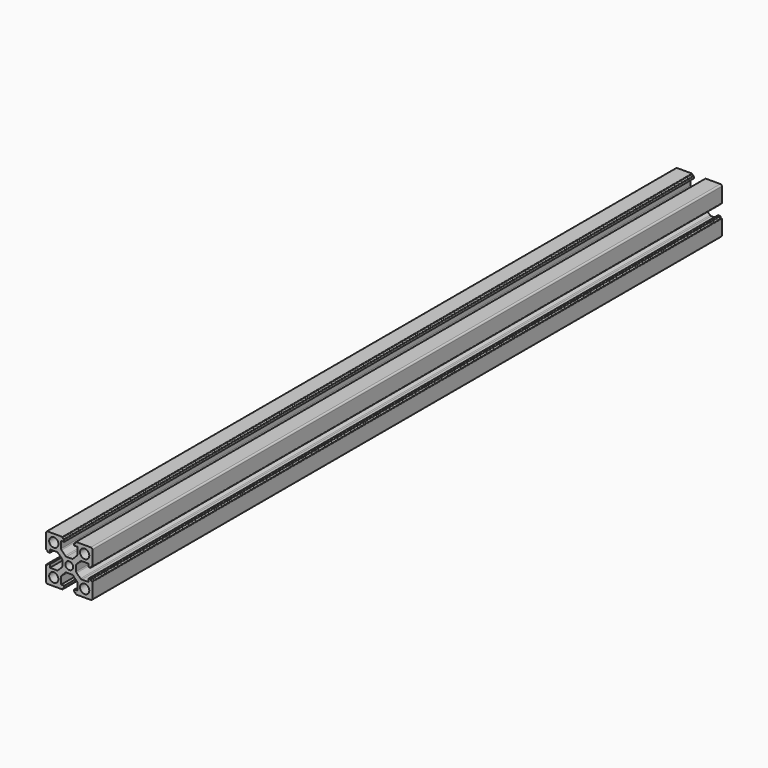
from build123d import *

# Parameters (mm, degrees)
F0_R     = 3
F0_R_2   = 2.5
F1_DEPTH = 510


with BuildPart() as f1:
    # F0 (on Front) → F1 (new body)
    with BuildSketch(Plane.XZ):
        with BuildLine():
            Line((-4.5, 15), (-14, 15))
            ThreePointArc((-14, 15), (-14.707107, 14.707107), (-15, 14))
            Line((-15, 14), (-15, 4.5))
            ThreePointArc((-15, 4.5), (-14.912132, 4.287868), (-14.7, 4.2))
            Line((-14.7, 4.2), (-14.5, 4.2))
            ThreePointArc((-14.5, 4.2), (-14.146447, 4.053553), (-14, 3.7))
            Line((-14, 3.7), (-14, 3.55))
            ThreePointArc((-14, 3.55), (-13.912132, 3.337868), (-13.7, 3.25))
            Line((-13.7, 3.25), (-12.5, 3.25))
            Line((-12.5, 3.25), (-12.5, 5.25))
            Line((-12.5, 5.25), (-8.004644, 5.25))
            ThreePointArc((-8.004644, 5.25), (-7.629545, 5.176985), (-7.309222, 4.968602))
            Line((-7.309222, 4.968602), (-4.804579, 2.544753))
            ThreePointArc((-4.804579, 2.544753), (-4.579288, 2.216394), (-4.5, 1.826151))
            Line((-4.5, 1.826151), (-4.5, -1.826151))
            ThreePointArc((-4.5, -1.826151), (-4.579288, -2.216394), (-4.804579, -2.544753))
            Line((-4.804579, -2.544753), (-7.309222, -4.968602))
            ThreePointArc((-7.309222, -4.968602), (-7.629545, -5.176985), (-8.004644, -5.25))
            Line((-8.004644, -5.25), (-12.5, -5.25))
            Line((-12.5, -5.25), (-12.5, -3.25))
            Line((-12.5, -3.25), (-13.7, -3.25))
            ThreePointArc((-13.7, -3.25), (-13.912132, -3.337868), (-14, -3.55))
            Line((-14, -3.55), (-14, -3.7))
            ThreePointArc((-14, -3.7), (-14.146447, -4.053553), (-14.5, -4.2))
            Line((-14.5, -4.2), (-14.7, -4.2))
            ThreePointArc((-14.7, -4.2), (-14.912132, -4.287868), (-15, -4.5))
            Line((-15, -4.5), (-15, -14))
            ThreePointArc((-15, -14), (-14.707107, -14.707107), (-14, -15))
            Line((-14, -15), (-4.5, -15))
            ThreePointArc((-4.5, -15), (-4.287868, -14.912132), (-4.2, -14.7))
            Line((-4.2, -14.7), (-4.2, -14.5))
            ThreePointArc((-4.2, -14.5), (-4.053553, -14.146447), (-3.7, -14))
            Line((-3.7, -14), (-3.55, -14))
            ThreePointArc((-3.55, -14), (-3.337868, -13.912132), (-3.25, -13.7))
            Line((-3.25, -13.7), (-3.25, -12.5))
            Line((-3.25, -12.5), (-5.25, -12.5))
            Line((-5.25, -12.5), (-5.25, -8.004644))
            ThreePointArc((-5.25, -8.004644), (-5.176985, -7.629545), (-4.968602, -7.309222))
            Line((-4.968602, -7.309222), (-2.544753, -4.804579))
            ThreePointArc((-2.544753, -4.804579), (-2.216394, -4.579288), (-1.826151, -4.5))
            Line((-1.826151, -4.5), (1.826151, -4.5))
            ThreePointArc((1.826151, -4.5), (2.216394, -4.579288), (2.544753, -4.804579))
            Line((2.544753, -4.804579), (4.968602, -7.309222))
            ThreePointArc((4.968602, -7.309222), (5.176985, -7.629545), (5.25, -8.004644))
            Line((5.25, -8.004644), (5.25, -12.5))
            Line((5.25, -12.5), (3.25, -12.5))
            Line((3.25, -12.5), (3.25, -13.7))
            ThreePointArc((3.25, -13.7), (3.337868, -13.912132), (3.55, -14))
            Line((3.55, -14), (3.7, -14))
            ThreePointArc((3.7, -14), (4.053553, -14.146447), (4.2, -14.5))
            Line((4.2, -14.5), (4.2, -14.7))
            ThreePointArc((4.2, -14.7), (4.287868, -14.912132), (4.5, -15))
            Line((4.5, -15), (14, -15))
            ThreePointArc((14, -15), (14.707107, -14.707107), (15, -14))
            Line((15, -14), (15, -4.5))
            ThreePointArc((15, -4.5), (14.912132, -4.287868), (14.7, -4.2))
            Line((14.7, -4.2), (14.5, -4.2))
            ThreePointArc((14.5, -4.2), (14.146447, -4.053553), (14, -3.7))
            Line((14, -3.7), (14, -3.55))
            ThreePointArc((14, -3.55), (13.912132, -3.337868), (13.7, -3.25))
            Line((13.7, -3.25), (12.5, -3.25))
            Line((12.5, -3.25), (12.5, -5.25))
            Line((12.5, -5.25), (8.004644, -5.25))
            ThreePointArc((8.004644, -5.25), (7.629545, -5.176985), (7.309222, -4.968602))
            Line((7.309222, -4.968602), (4.804579, -2.544753))
            ThreePointArc((4.804579, -2.544753), (4.579288, -2.216394), (4.5, -1.826151))
            Line((4.5, -1.826151), (4.5, 1.826151))
            ThreePointArc((4.5, 1.826151), (4.579288, 2.216394), (4.804579, 2.544753))
            Line((4.804579, 2.544753), (7.309222, 4.968602))
            ThreePointArc((7.309222, 4.968602), (7.629545, 5.176985), (8.004644, 5.25))
            Line((8.004644, 5.25), (12.5, 5.25))
            Line((12.5, 5.25), (12.5, 3.25))
            Line((12.5, 3.25), (13.7, 3.25))
            ThreePointArc((13.7, 3.25), (13.912132, 3.337868), (14, 3.55))
            Line((14, 3.55), (14, 3.7))
            ThreePointArc((14, 3.7), (14.146447, 4.053553), (14.5, 4.2))
            Line((14.5, 4.2), (14.7, 4.2))
            ThreePointArc((14.7, 4.2), (14.912132, 4.287868), (15, 4.5))
            Line((15, 4.5), (15, 14))
            ThreePointArc((15, 14), (14.707107, 14.707107), (14, 15))
            Line((14, 15), (4.5, 15))
            ThreePointArc((4.5, 15), (4.287868, 14.912132), (4.2, 14.7))
            Line((4.2, 14.7), (4.2, 14.5))
            ThreePointArc((4.2, 14.5), (4.053553, 14.146447), (3.7, 14))
            Line((3.7, 14), (3.55, 14))
            ThreePointArc((3.55, 14), (3.337868, 13.912132), (3.25, 13.7))
            Line((3.25, 13.7), (3.25, 12.5))
            Line((3.25, 12.5), (5.25, 12.5))
            Line((5.25, 12.5), (5.25, 8.004644))
            ThreePointArc((5.25, 8.004644), (5.176985, 7.629545), (4.968602, 7.309222))
            Line((4.968602, 7.309222), (2.544753, 4.804579))
            ThreePointArc((2.544753, 4.804579), (2.216394, 4.579288), (1.826151, 4.5))
            Line((1.826151, 4.5), (-1.826151, 4.5))
            ThreePointArc((-1.826151, 4.5), (-2.216394, 4.579288), (-2.544753, 4.804579))
            Line((-2.544753, 4.804579), (-4.968602, 7.309222))
            ThreePointArc((-4.968602, 7.309222), (-5.176985, 7.629545), (-5.25, 8.004644))
            Line((-5.25, 8.004644), (-5.25, 12.5))
            Line((-5.25, 12.5), (-3.25, 12.5))
            Line((-3.25, 12.5), (-3.25, 13.7))
            ThreePointArc((-3.25, 13.7), (-3.337868, 13.912132), (-3.55, 14))
            Line((-3.55, 14), (-3.7, 14))
            ThreePointArc((-3.7, 14), (-4.053553, 14.146447), (-4.2, 14.5))
            Line((-4.2, 14.5), (-4.2, 14.7))
            ThreePointArc((-4.2, 14.7), (-4.287868, 14.912132), (-4.5, 15))
        make_face()
        with Locations((-10, -10)):
            Circle(F0_R, mode=Mode.SUBTRACT)
        with Locations((10, -10)):
            Circle(F0_R, mode=Mode.SUBTRACT)
        with Locations((-10, 10)):
            Circle(F0_R, mode=Mode.SUBTRACT)
        Circle(F0_R_2, mode=Mode.SUBTRACT)
        with Locations((10, 10)):
            Circle(F0_R, mode=Mode.SUBTRACT)
    extrude(amount=F1_DEPTH)


solid = f1.part
